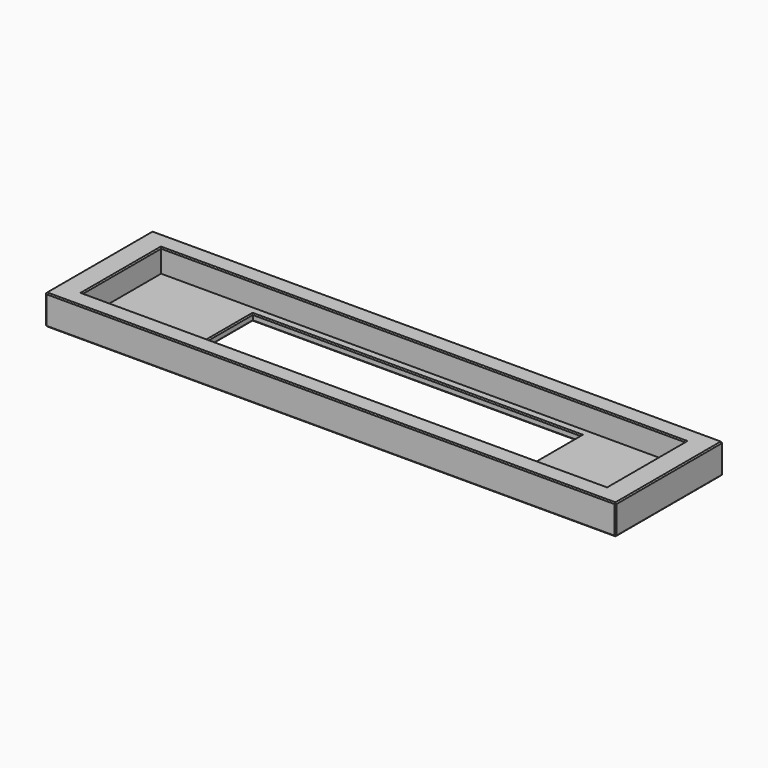
from build123d import *

# Parameters (mm, degrees)
F0_W     = 227
F0_H     = 42.5
F0_W_2   = 142
F0_H_2   = 35.5
F1_DEPTH = 3
F0_W_3   = 247
F0_H_3   = 58
F2_DEPTH = 13
F3_SIZE  = 0.5
F4_SIZE  = 0.5


with BuildPart() as f1:
    # F0 (on Top) → F1 (new body)
    with BuildSketch(Plane.XY):
        Rectangle(F0_W, F0_H)
        Rectangle(F0_W_2, F0_H_2, mode=Mode.SUBTRACT)
    extrude(amount=F1_DEPTH)

    # F0 (on Top) → F2 (join)
    with BuildSketch(Plane.XY):
        Rectangle(F0_W_3, F0_H_3)
        Rectangle(F0_W, F0_H, mode=Mode.SUBTRACT)
    extrude(amount=F2_DEPTH)

    # F3
    f3_edges = [f1.edges().sort_by_distance(p)[0] for p in [
        (-123.5, -29, 6.5),
        (0, -29, 13),
        (123.5, 0, 13),
        (0, 29, 13),
        (-123.5, 0, 13),
        (113.5, 0, 13),
        (0, -21.25, 13),
        (-113.5, 0, 13),
        (0, 21.25, 13),
        (123.5, -29, 6.5),
        (123.5, 29, 6.5),
        (-123.5, 29, 6.5),
        (-123.5, 0, 0),
        (0, -29, 0),
        (0, 29, 0),
        (123.5, 0, 0),
    ]]
    chamfer(f3_edges, length=F3_SIZE)

    # F4
    f4_edges = [f1.edges().sort_by_distance(p)[0] for p in [
        (0, -17.75, 3),
        (-71, 0, 3),
        (0, 17.75, 3),
        (71, 0, 3),
        (0, -17.75, 0),
        (-71, 0, 0),
        (0, 17.75, 0),
        (71, 0, 0),
    ]]
    chamfer(f4_edges, length=F4_SIZE)


solid = f1.part
